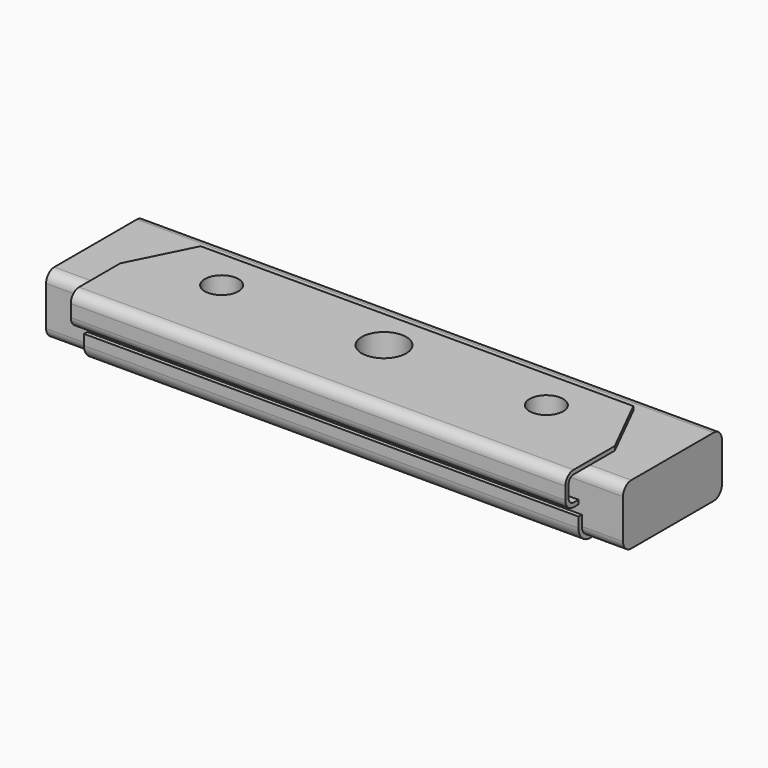
from build123d import *

# Parameters (mm, degrees)
F0_W      = 355.6
F0_H      = 76.2
F0_R      = 10.3505
F0_R_2    = 13.716
F1_DEPTH  = 37.084
F2_R      = 6.35
F3_W      = 304.8
F3_H      = 12.7
F3_R      = 10.3505
F3_R_2    = 13.716
F4_DEPTH  = 2.54
F5_R      = 10.3505
F5_R_2    = 13.716
F6_DEPTH  = 2.54
F8_DEPTH  = 304.8
F10_DEPTH = 304.8


with BuildPart() as f1:
    # F0 (on Top) → F1 (new body)
    with BuildSketch(Plane.XY):
        Rectangle(F0_W, F0_H)
        with Locations((-100.076, 0)):
            Circle(F0_R, mode=Mode.SUBTRACT)
        Circle(F0_R_2, mode=Mode.SUBTRACT)
        with Locations((100.076, 0)):
            Circle(F0_R, mode=Mode.SUBTRACT)
    extrude(amount=F1_DEPTH)

    # F2
    f2_edges = [f1.edges().sort_by_distance(p)[0] for p in [
        (0, -38.1, 37.084),
        (0, -38.1, 0),
        (0, 38.1, 37.084),
        (0, 38.1, 0),
    ]]
    fillet(f2_edges, radius=F2_R)

    # F3 (on face) → F4 (join)
    with BuildSketch(Plane.XY.offset(37.084)):
        with Locations((0, -38.1)):
            Rectangle(F3_W, F3_H)
        Polygon((-152.4, -12.7), (-152.4, -31.75), (152.4, -31.75), (152.4, -12.7), (133.35, 25.4), (-133.35, 25.4), align=None)
        with Locations((-100.076, 0)):
            Circle(F3_R, mode=Mode.SUBTRACT)
        Circle(F3_R_2, mode=Mode.SUBTRACT)
        with Locations((100.076, 0)):
            Circle(F3_R, mode=Mode.SUBTRACT)
    extrude(amount=F4_DEPTH)

    # F5 (on face) → F6 (join)
    with BuildSketch(Plane(origin=(0, 0, 0), x_dir=(1, 0, 0), z_dir=(0, 0, -1))):
        Polygon((-152.4, 12.7), (-133.35, -25.4), (133.35, -25.4), (152.4, 12.7), (152.4, 31.75), (-152.4, 31.75), align=None)
        with Locations((-100.076, 0)):
            Circle(F5_R, mode=Mode.SUBTRACT)
        Circle(F5_R_2, mode=Mode.SUBTRACT)
        with Locations((100.076, 0)):
            Circle(F5_R, mode=Mode.SUBTRACT)
    extrude(amount=F6_DEPTH)

    # F7 (on face) → F8 (join)
    with BuildSketch(Plane.YZ.offset(152.4)):
        with BuildLine():
            ThreePointArc((-48.26, 33.274), (-47.1440768363, 35.9680768363), (-44.45, 37.084))
            Line((-44.45, 37.084), (-44.45, 39.624))
            ThreePointArc((-44.45, 39.624), (-48.9401280605, 37.7641280605), (-50.8, 33.274))
            Line((-50.8, 33.274), (-50.8, 25.654))
            ThreePointArc((-50.8, 25.654), (-48.9401280605, 21.1638719395), (-44.45, 19.304))
            Line((-44.45, 19.304), (-40.64, 19.304))
            Line((-40.64, 19.304), (-40.64, 21.844))
            Line((-40.64, 21.844), (-44.45, 21.844))
            ThreePointArc((-44.45, 21.844), (-47.1440768363, 22.9599231637), (-48.26, 25.654))
            Line((-48.26, 25.654), (-48.26, 33.274))
        make_face()
    extrude(amount=-F8_DEPTH)

    # F9 (on face) → F10 (join)
    with BuildSketch(Plane(origin=(-152.4, 0, 0), x_dir=(0, -1, 0), z_dir=(-1, 0, 0))):
        with BuildLine():
            ThreePointArc((31.75, -2.54), (38.0361792847, 0.0638207153), (40.64, 6.35))
            Line((40.64, 6.35), (40.64, 12.7))
            Line((40.64, 12.7), (38.1, 12.7))
            Line((38.1, 12.7), (38.1, 6.35))
            ThreePointArc((38.1, 6.35), (36.2401280605, 1.8598719395), (31.75, 0))
            Line((31.75, 0), (31.75, -2.54))
        make_face()
    extrude(amount=-F10_DEPTH)


solid = f1.part
